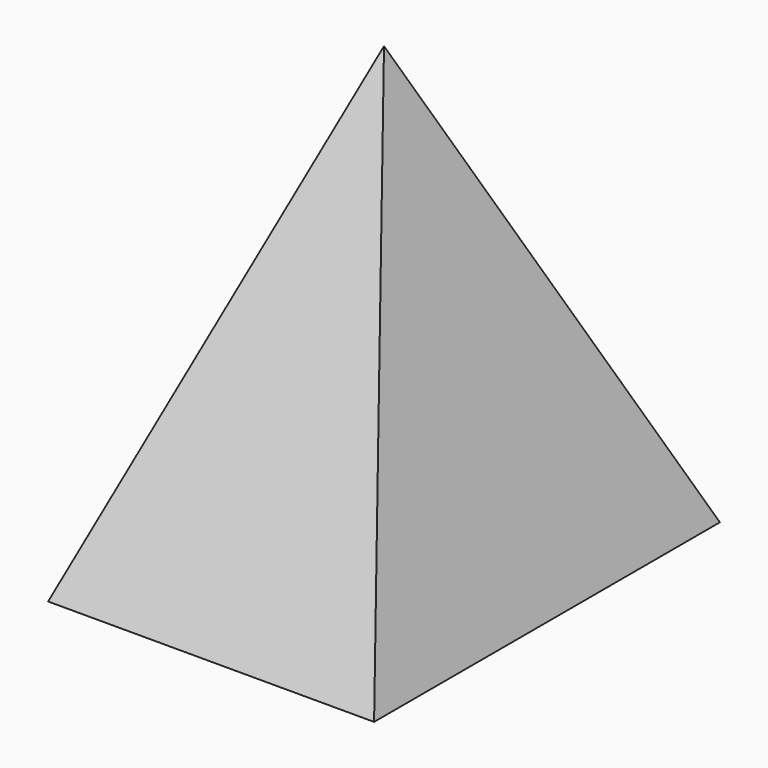
from build123d import *

# Parameters (mm, degrees)
F0_W = 91.1702
F0_H = 120.891256


with BuildPart() as f3:
    # F0 (on Top) → F3 section 0
    with BuildSketch(Plane.XY, mode=Mode.PRIVATE) as f3_s0:
        Rectangle(F0_W, F0_H)
    loft([Vertex(0, 0, 127), f3_s0.sketch])


solid = f3.part
